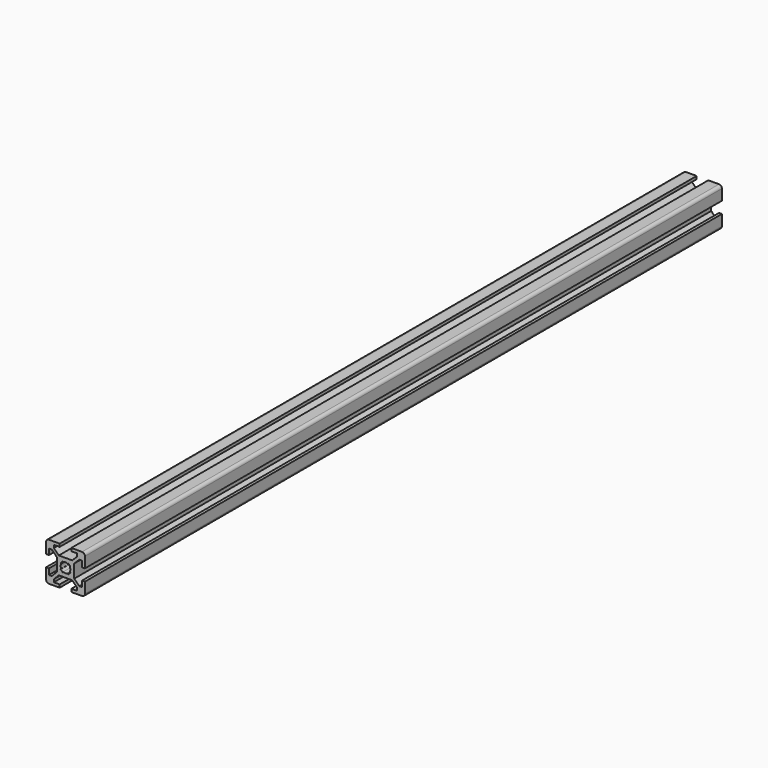
from build123d import *

# Parameters (mm, degrees)
F1_DEPTH = 410


with BuildPart() as f1:
    # F0 (on Front) → F1 (new body)
    with BuildSketch(Plane.XZ):
        with BuildLine():
            Line((3, -10), (8.5, -10))
            ThreePointArc((8.5, -10), (9.5606601718, -9.5606601718), (10, -8.5))
            Line((10, -8.5), (10, -3))
            Line((10, -3), (8.5, -3))
            Line((8.5, -3), (8.5, -6))
            Line((8.5, -6), (7.0606601718, -6))
            Line((7.0606601718, -6), (4.5, -3.4393398282))
            Line((4.5, -3.4393398282), (4.5, 3.4393398282))
            Line((4.5, 3.4393398282), (7.0606601718, 6))
            Line((7.0606601718, 6), (8.5, 6))
            Line((8.5, 6), (8.5, 3))
            Line((8.5, 3), (10, 3))
            Line((10, 3), (10, 8.5))
            ThreePointArc((10, 8.5), (9.5606601718, 9.5606601718), (8.5, 10))
            Line((8.5, 10), (3, 10))
            Line((3, 10), (3, 8.5))
            Line((3, 8.5), (6, 8.5))
            Line((6, 8.5), (6, 7.0606601718))
            Line((6, 7.0606601718), (3.4393398282, 4.5))
            Line((3.4393398282, 4.5), (-3.4393398282, 4.5))
            Line((-3.4393398282, 4.5), (-6, 7.0606601718))
            Line((-6, 7.0606601718), (-6, 8.5))
            Line((-6, 8.5), (-3, 8.5))
            Line((-3, 8.5), (-3, 10))
            Line((-3, 10), (-8.5, 10))
            ThreePointArc((-8.5, 10), (-9.5606601718, 9.5606601718), (-10, 8.5))
            Line((-10, 8.5), (-10, 3))
            Line((-10, 3), (-8.5, 3))
            Line((-8.5, 3), (-8.5, 6))
            Line((-8.5, 6), (-7.0606601718, 6))
            Line((-7.0606601718, 6), (-4.5, 3.4393398282))
            Line((-4.5, 3.4393398282), (-4.5, -3.4393398282))
            Line((-4.5, -3.4393398282), (-7.0606601718, -6))
            Line((-7.0606601718, -6), (-8.5, -6))
            Line((-8.5, -6), (-8.5, -3))
            Line((-8.5, -3), (-10, -3))
            Line((-10, -3), (-10, -8.5))
            ThreePointArc((-10, -8.5), (-9.5606601718, -9.5606601718), (-8.5, -10))
            Line((-8.5, -10), (-3, -10))
            Line((-3, -10), (-3, -8.5))
            Line((-3, -8.5), (-6, -8.5))
            Line((-6, -8.5), (-6, -7.0606601718))
            Line((-6, -7.0606601718), (-3.4393398282, -4.5))
            Line((-3.4393398282, -4.5), (3.4393398282, -4.5))
            Line((3.4393398282, -4.5), (6, -7.0606601718))
            Line((6, -7.0606601718), (6, -8.5))
            Line((6, -8.5), (3, -8.5))
            Line((3, -8.5), (3, -10))
        make_face()
        with BuildLine():
            ThreePointArc((-1.1560121095, 2.2166722813), (0, 2.5), (1.1560121095, 2.2166722813))
            Line((1.1560121095, 2.2166722813), (1.4393398282, 2.5))
            Line((1.4393398282, 2.5), (2.5, 1.4393398282))
            Line((2.5, 1.4393398282), (2.2166722813, 1.1560121095))
            ThreePointArc((2.2166722813, 1.1560121095), (2.5, 0), (2.2166722813, -1.1560121095))
            Line((2.2166722813, -1.1560121095), (2.5, -1.4393398282))
            Line((2.5, -1.4393398282), (1.4393398282, -2.5))
            Line((1.4393398282, -2.5), (1.1560121095, -2.2166722813))
            ThreePointArc((1.1560121095, -2.2166722813), (0, -2.5), (-1.1560121095, -2.2166722813))
            Line((-1.1560121095, -2.2166722813), (-1.4393398282, -2.5))
            Line((-1.4393398282, -2.5), (-2.5, -1.4393398282))
            Line((-2.5, -1.4393398282), (-2.2166722813, -1.1560121095))
            ThreePointArc((-2.2166722813, -1.1560121095), (-2.5, 0), (-2.2166722813, 1.1560121095))
            Line((-2.2166722813, 1.1560121095), (-2.5, 1.4393398282))
            Line((-2.5, 1.4393398282), (-1.4393398282, 2.5))
            Line((-1.4393398282, 2.5), (-1.1560121095, 2.2166722813))
        make_face(mode=Mode.SUBTRACT)
    extrude(amount=F1_DEPTH)


solid = f1.part
